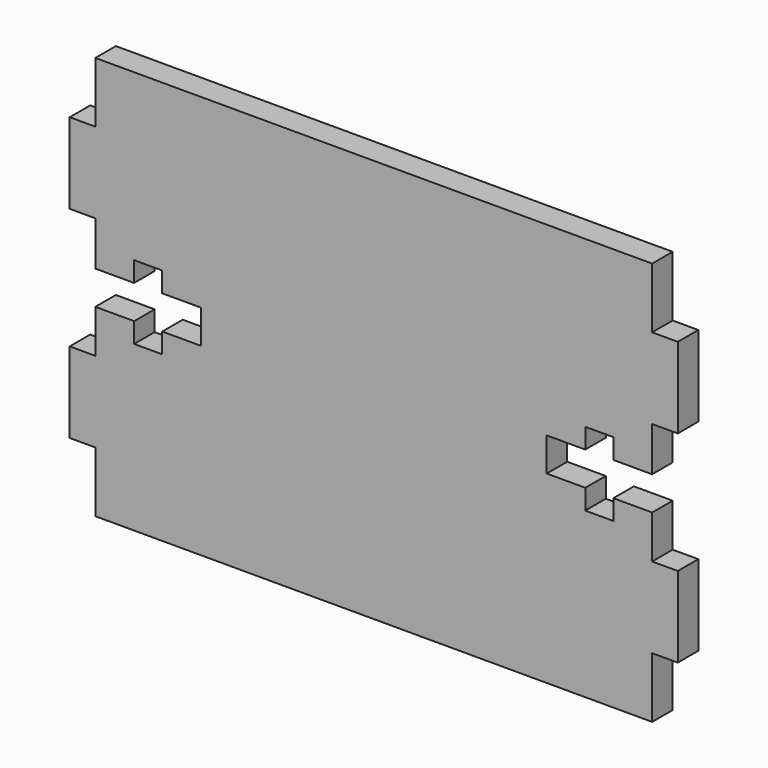
from build123d import *

# Parameters (mm, degrees)
F1_DEPTH = 3.175


with BuildPart() as f1:
    # F0 (on Front) → F1 (new body)
    with BuildSketch(Plane.XZ):
        Polygon((34.5, 25), (-34.5, 25), (-34.5, 17.5), (-37.675, 17.5), (-37.675, 7.5), (-34.5, 7.5), (-34.5, 2.013062), (-31.325, 2.013062), (-29.690622, 2.013062), (-29.690622, 4.502262), (-26.210822, 4.502262), (-26.210822, 2.013062), (-21.435622, 2.013062), (-21.435622, -2.152538), (-26.210822, -2.152538), (-26.210822, -4.641738), (-29.690622, -4.641738), (-29.690622, -2.152538), (-31.325, -2.152538), (-34.5, -2.152538), (-34.5, -7.5), (-37.675, -7.5), (-37.675, -17.5), (-34.5, -17.5), (-34.5, -25), (34.5, -25), (34.5, -17.5), (37.675, -17.5), (37.675, -7.5), (34.5, -7.5), (34.5, -2.152538), (31.325, -2.152538), (29.690622, -2.152538), (29.690622, -4.641738), (26.210822, -4.641738), (26.210822, -2.152538), (21.435622, -2.152538), (21.435622, 2.013062), (26.210822, 2.013062), (26.210822, 4.502262), (29.690622, 4.502262), (29.690622, 2.013062), (31.325, 2.013062), (34.5, 2.013062), (34.5, 7.5), (37.675, 7.5), (37.675, 17.5), (34.5, 17.5), align=None)
    extrude(amount=F1_DEPTH)


solid = f1.part
